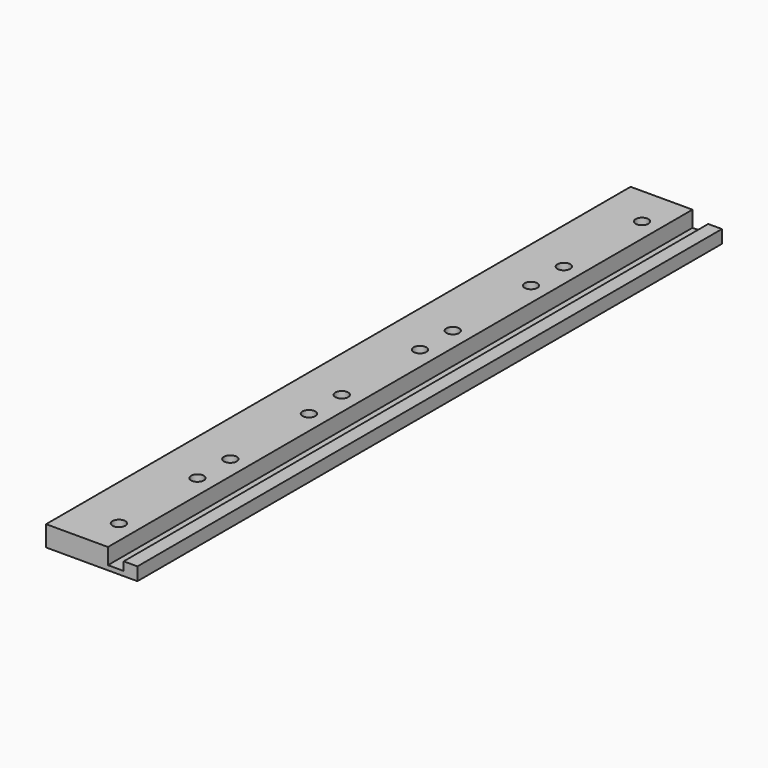
from build123d import *

# Parameters (mm, degrees)
F0_W     = 25.4
F0_H     = 203.2
F1_DEPTH = 5.715
F2_W     = 4.3815
F2_H     = 203.2
F3_DEPTH = 4.445
F4_W     = 22.456064
F4_H     = 239.023939
F5_DEPTH = 2.0828
F6_R     = 1.778
F7_DEPTH = 25.4


with BuildPart() as f1:
    # F0 (on Top) → F1 (new body)
    with BuildSketch(Plane.XY):
        with Locations((12.7, 101.6)):
            Rectangle(F0_W, F0_H)
    extrude(amount=F1_DEPTH)

    # F2 (on face) → F3 (cut)
    with BuildSketch(Plane.XY.offset(5.715)):
        with Locations((19.39925, 101.6)):
            Rectangle(F2_W, F2_H)
    extrude(amount=-F3_DEPTH, mode=Mode.SUBTRACT)

    # F4 (on face) → F5 (cut)
    with BuildSketch(Plane.XY.offset(5.715)):
        with Locations((30.91247, 90.933911)):
            Rectangle(F4_W, F4_H)
    extrude(amount=-F5_DEPTH, mode=Mode.SUBTRACT)

    # F6 (on face) → F7 (cut)
    with BuildSketch(Plane.XY.offset(5.715)):
        with Locations((12.1285, 37.465)):
            Circle(F6_R)
        with Locations((12.1285, 10.16)):
            Circle(F6_R)
        with Locations((12.1285, 48.895)):
            Circle(F6_R)
        with Locations((12.1285, 87.63)):
            Circle(F6_R)
        with Locations((12.1285, 76.2)):
            Circle(F6_R)
        with Locations((12.1285, 114.808)):
            Circle(F6_R)
        with Locations((12.1285, 126.238)):
            Circle(F6_R)
        with Locations((12.1285, 153.416)):
            Circle(F6_R)
        with Locations((12.1285, 164.846)):
            Circle(F6_R)
        with Locations((12.1285, 192.024)):
            Circle(F6_R)
    extrude(amount=-F7_DEPTH, mode=Mode.SUBTRACT)


solid = f1.part
